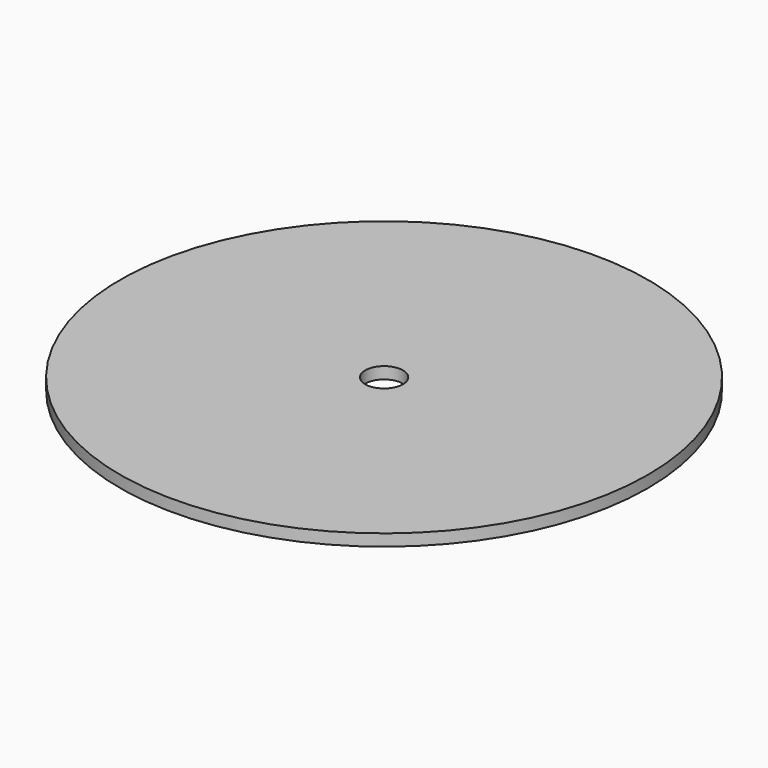
from build123d import *

# Parameters (mm, degrees)
F0_R     = 57.15
F1_DEPTH = 2.54
F2_R     = 4.09365
F3_DEPTH = 25.4
F4_DEPTH = 25.4


with BuildPart() as f1:
    # F0 (on Top) → F1 (new body)
    with BuildSketch(Plane.XY):
        Circle(F0_R)
    extrude(amount=F1_DEPTH)

    # F2 (on Top) → F3 (cut)
    with BuildSketch(Plane.XY):
        Circle(F2_R)
    extrude(amount=-F3_DEPTH, mode=Mode.SUBTRACT)

    # F2 (on Top) → F4 (cut)
    with BuildSketch(Plane.XY):
        Circle(F2_R)
    extrude(amount=F4_DEPTH, mode=Mode.SUBTRACT)


solid = f1.part
